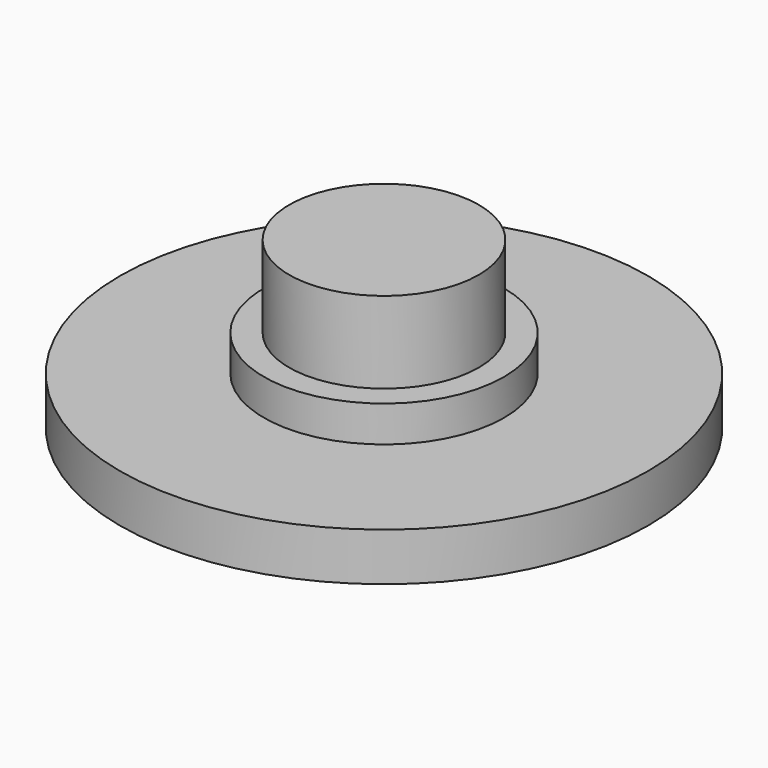
from build123d import *

# Parameters (mm, degrees)
F0_R     = 11
F0_R_2   = 5
F1_DEPTH = 2
F2_DEPTH = 1.5
F3_R     = 3.95
F4_DEPTH = 3.4


with BuildPart() as f1:
    # F0 (on Top) → F1 (new body)
    with BuildSketch(Plane.XY):
        Circle(F0_R)
        Circle(F0_R_2, mode=Mode.SUBTRACT)
        Circle(F0_R_2)
    extrude(amount=-F1_DEPTH)

    # F0 (on Top) → F2 (join)
    with BuildSketch(Plane.XY):
        Circle(F0_R_2)
    extrude(amount=F2_DEPTH)

    # F3 (on face) → F4 (join)
    with BuildSketch(Plane.XY.offset(1.5)):
        Circle(F3_R)
    extrude(amount=F4_DEPTH)


solid = f1.part
